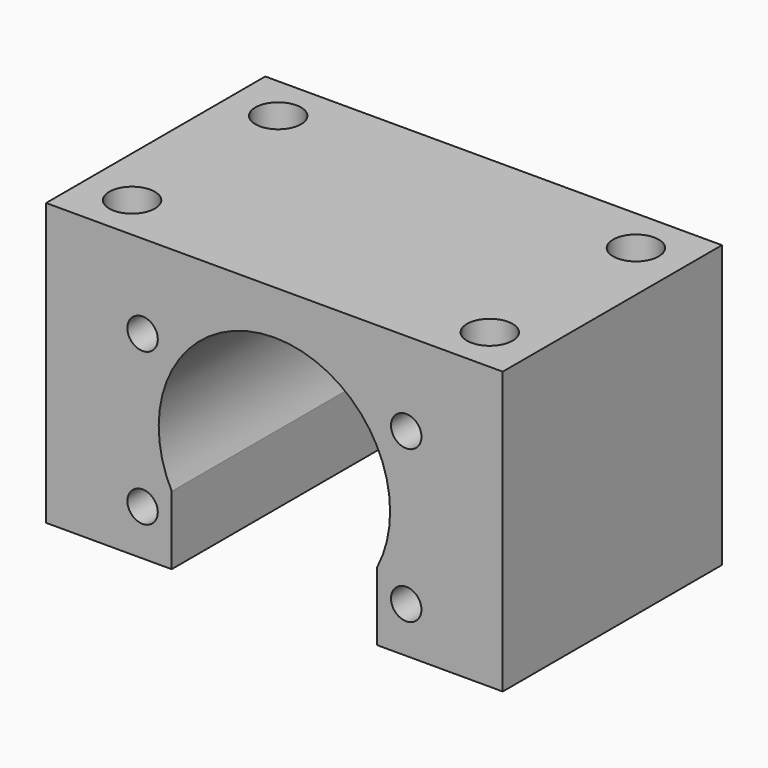
from build123d import *

# Parameters (mm, degrees)
F1_DEPTH = 18
F2_R     = 2
F4_DEPTH = 10
F3_R     = 3
F5_DEPTH = 16


with BuildPart() as f1:
    # F0 (on Front) → F1 (new body, symmetric)
    with BuildSketch(Plane.XZ):
        with BuildLine():
            ThreePointArc((-13.5, -6.984984), (0, 15.2), (13.5, -6.984984))
            Line((13.5, -6.984984), (13.5, -16))
            Line((13.5, -16), (30, -16))
            Line((30, -16), (30, 21))
            Line((30, 21), (-30, 21))
            Line((-30, 21), (-30, -16))
            Line((-30, -16), (-13.5, -16))
            Line((-13.5, -16), (-13.5, -6.984984))
        make_face()
    extrude(amount=F1_DEPTH, both=True)

    # F2 (on face) → F4 (cut)
    with BuildSketch(Plane.XZ.offset(18)):
        with Locations((-17.320508, 10)):
            Circle(F2_R)
        with Locations((17.320508, 10)):
            Circle(F2_R)
        with Locations((17.320508, -10)):
            Circle(F2_R)
        with Locations((-17.320508, -10)):
            Circle(F2_R)
    extrude(amount=-F4_DEPTH, mode=Mode.SUBTRACT)

    # F3 (on face) → F5 (cut)
    with BuildSketch(Plane.XY.offset(21)):
        with Locations((-23.5, 12)):
            Circle(F3_R)
        with Locations((23.5, 12)):
            Circle(F3_R)
        with Locations((23.5, -12)):
            Circle(F3_R)
        with Locations((-23.5, -12)):
            Circle(F3_R)
    extrude(amount=-F5_DEPTH, mode=Mode.SUBTRACT)


solid = f1.part
